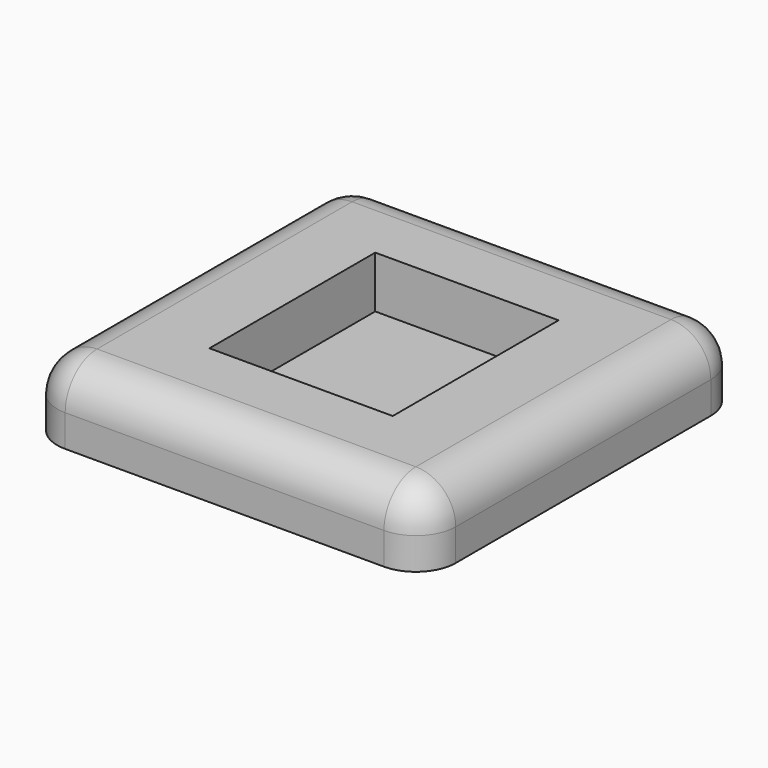
from build123d import *

# Parameters (mm, degrees)
F0_W     = 50
F0_H     = 50
F1_DEPTH = 9
F2_W     = 23
F2_H     = 26
F3_DEPTH = 6.5
F4_R     = 5


with BuildPart() as f1:
    # F0 (on Top) → F1 (new body)
    with BuildSketch(Plane.XY):
        Rectangle(F0_W, F0_H)
    extrude(amount=F1_DEPTH)

    # F2 (on face) → F3 (cut)
    with BuildSketch(Plane.XY.offset(9)):
        Rectangle(F2_W, F2_H)
    extrude(amount=-F3_DEPTH, mode=Mode.SUBTRACT)

    # F4
    f4_edges = [f1.edges().sort_by_distance(p)[0] for p in [
        (-25, -25, 4.5),
        (25, -25, 4.5),
        (0, 25, 9),
        (-25, 0, 9),
        (25, 0, 9),
        (0, -25, 9),
        (-25, 25, 4.5),
        (25, 25, 4.5),
    ]]
    fillet(f4_edges, radius=F4_R)


solid = f1.part
